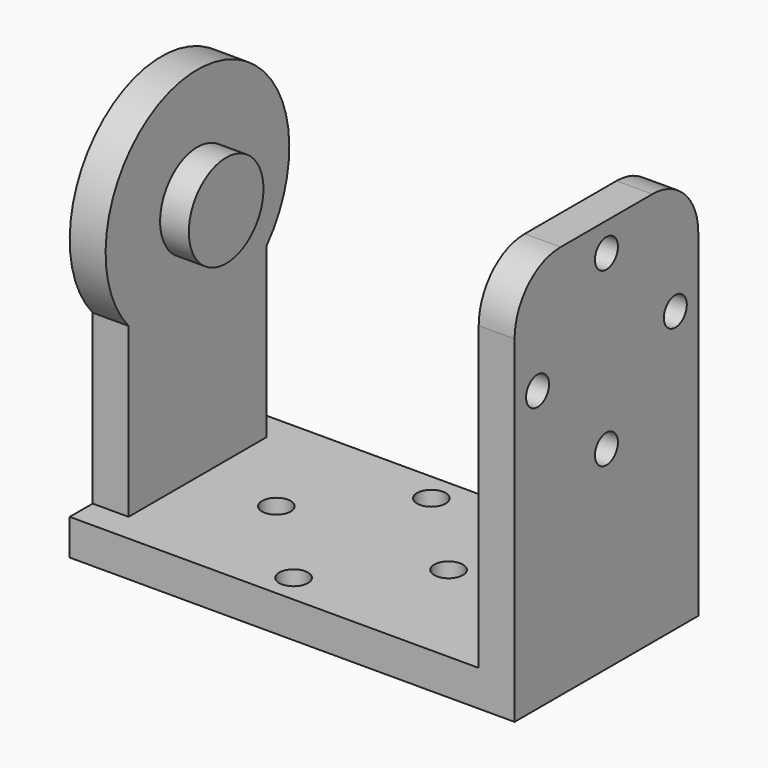
from build123d import *

# Parameters (mm, degrees)
SKETCH_W        = 31
SKETCH_H        = 16
SKETCH_R        = 1
PAD_DEPTH       = 2.5
SKETCH001_W     = 2.5
SKETCH001_H     = 16
PAD001_DEPTH    = 25
SKETCH002_R     = 1
POCKET_DEPTH    = 5
SKETCH003_W     = 2.5
SKETCH003_H     = 16
PAD002_DEPTH    = 25
POCKET001_DEPTH = 5
SKETCH005_R     = 3.25
PAD003_DEPTH    = 2


with BuildPart() as part:
    # Sketch → Pad (new body)
    with BuildSketch(Plane.XY):
        with Locations((15.5, 8)):
            Rectangle(SKETCH_W, SKETCH_H)
        with Locations((14, 14)):
            Circle(SKETCH_R, mode=Mode.SUBTRACT)
        with Locations((8, 8)):
            Circle(SKETCH_R, mode=Mode.SUBTRACT)
        with Locations((14, 2)):
            Circle(SKETCH_R, mode=Mode.SUBTRACT)
        with Locations((20, 8)):
            Circle(SKETCH_R, mode=Mode.SUBTRACT)
    extrude(amount=PAD_DEPTH)

    # Sketch001 (on Face10 of Pad) → Pad001 (join)
    with BuildSketch(Plane.XY.offset(2.5)):
        with Locations((29.75, 8)):
            Rectangle(SKETCH001_W, SKETCH001_H)
    extrude(amount=PAD001_DEPTH)

    # Sketch002 (on Face8 of Pad001) → Pocket (cut)
    with BuildSketch(Plane.YZ.offset(31)):
        with Locations((8, 25.5)):
            Circle(SKETCH002_R)
        with Locations((2, 19.5)):
            Circle(SKETCH002_R)
        with Locations((14, 19.5)):
            Circle(SKETCH002_R)
        with Locations((8, 13.5)):
            Circle(SKETCH002_R)
        with BuildLine():
            ThreePointArc((4, 27.5), (1.171573, 26.328427), (0, 23.5))
            Line((0, 23.5), (-2, 23.5))
            Line((-2, 23.5), (-2, 29.5))
            Line((-2, 29.5), (4, 29.5))
            Line((4, 29.5), (4, 27.5))
        make_face()
        with BuildLine():
            ThreePointArc((16, 23.5), (14.828427, 26.328427), (12, 27.5))
            Line((12, 29.5), (12, 27.5))
            Line((18, 29.5), (12, 29.5))
            Line((18, 23.5), (18, 29.5))
            Line((16, 23.5), (18, 23.5))
        make_face()
    extrude(amount=-POCKET_DEPTH, mode=Mode.SUBTRACT)

    # Sketch003 (on Face5 of Pocket) → Pad002 (join)
    with BuildSketch(Plane.XY.offset(2.5)):
        with Locations((1.25, 8)):
            Rectangle(SKETCH003_W, SKETCH003_H)
    extrude(amount=PAD002_DEPTH)

    # Sketch004 (on Face9 of Pad002) → Pocket001 (cut)
    with BuildSketch(Plane(origin=(0, 0, 0), x_dir=(0, -1, 0), z_dir=(-1, 0, 0))):
        with BuildLine():
            ThreePointArc((-2, 14.208497), (-8, 27.5), (-14, 14.208497))
            Line((-14, 14.208497), (-14, 2.5))
            Line((-14, 2.5), (-18, 2.5))
            Line((-18, 2.5), (-18, 29.5))
            Line((-18, 29.5), (2, 29.5))
            Line((2, 29.5), (2, 2.5))
            Line((-2, 2.5), (2, 2.5))
            Line((-2, 14.208497), (-2, 2.5))
        make_face()
    extrude(amount=-POCKET001_DEPTH, mode=Mode.SUBTRACT)

    # Sketch005 (on Face19 of Pocket001) → Pad003 (join)
    with BuildSketch(Plane.YZ.offset(2.5)):
        with Locations((8, 19.5)):
            Circle(SKETCH005_R)
    extrude(amount=PAD003_DEPTH)


solid = part.part
